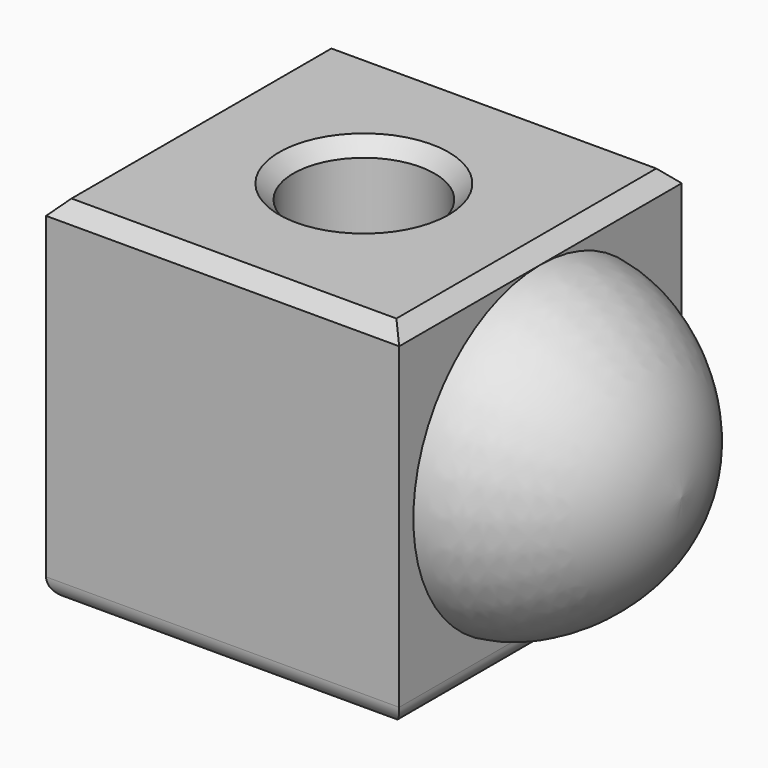
from build123d import *

# Parameters (mm, degrees)
F0_W     = 50
F0_H     = 50
F1_DEPTH = 50
F2_R     = 10
F3_DEPTH = 50.001
F4_SIZE  = 2
F5_R     = 3


with BuildPart() as f1:
    # F0 (on Top) → F1 (new body)
    with BuildSketch(Plane.XY):
        Rectangle(F0_W, F0_H)
    extrude(amount=F1_DEPTH)

    # F2 (on face) → F3 (cut, through all)
    with BuildSketch(Plane.XY.offset(50)):
        Circle(F2_R)
    extrude(amount=-F3_DEPTH, mode=Mode.SUBTRACT)

    # F4
    f4_edges = [f1.edges().sort_by_distance(p)[0] for p in [
        (0, -25, 50),
        (-25, 0, 50),
        (25, 0, 50),
        (0, 25, 50),
        (-10, 0, 50),
    ]]
    chamfer(f4_edges, length=F4_SIZE)

    # F5
    f5_edges = [f1.edges().sort_by_distance(p)[0] for p in [
        (0, -25, 0),
        (-25, 0, 0),
        (25, 0, 0),
        (0, 25, 0),
        (-10, 0, 0),
    ]]
    fillet(f5_edges, radius=F5_R)

    # F6 (on Front) → F7 (revolve)
    with BuildSketch(Plane.XZ):
        with BuildLine():
            Line((45, 25.5), (25, 25.5))
            Line((25, 25.5), (25, 3))
            add(Edge.make_bspline(
                [(45, 25.5), (44.5258021355, 20.7176618278), (42.3149203915, 12.2219088735), (31.248183921, 3.7772532087), (25, 3)],
                knots=[0, 0, 0, 0, 0.4587105615, 1, 1, 1, 1], degree=3))
        make_face()
    revolve(axis=Axis((35, 0, 25.5), (1, 0, 0)))


solid = f1.part
